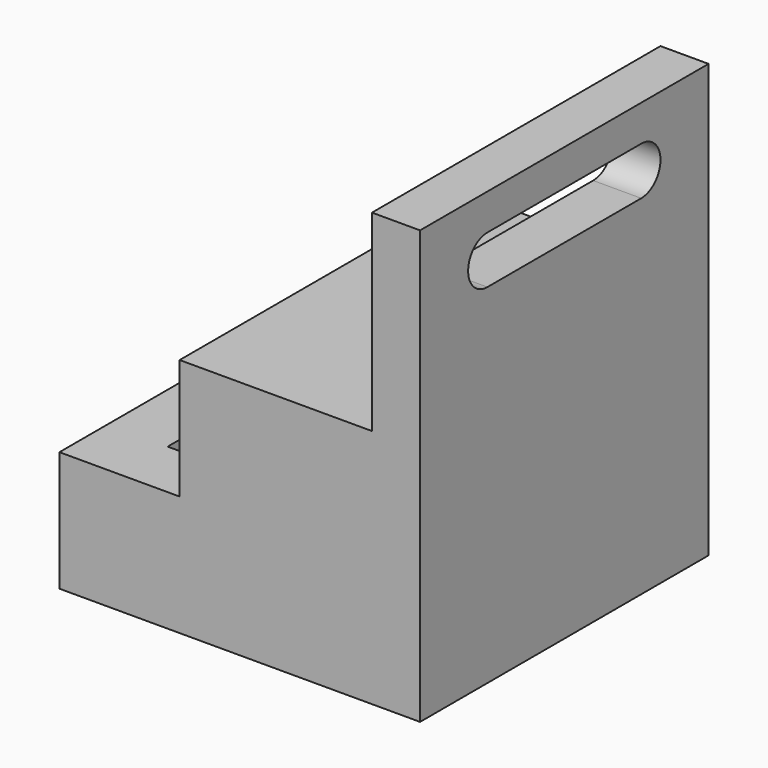
from build123d import *

# Parameters (mm, degrees)
F1_DEPTH = 381
F2_R     = 6.35
F3_DEPTH = 127.001
F4_W     = 50.8
F4_H     = 254
F5_DEPTH = 127.001
F7_DEPTH = 63.5


with BuildPart() as f1:
    # F0 (on Front) → F1 (new body)
    with BuildSketch(Plane.XZ):
        Polygon((190.5, -228.6), (190.5, 228.6), (139.7, 228.6), (139.7, 25.4), (-63.5, 25.4), (-63.5, -101.6), (-190.5, -101.6), (-190.5, -228.6), align=None)
    extrude(amount=F1_DEPTH)

    # F2 (on face) → F3 (cut, through all)
    with BuildSketch(Plane.XY.offset(-101.6)):
        with Locations((-139.7, -190.5)):
            Circle(F2_R)
    extrude(amount=-F3_DEPTH, mode=Mode.SUBTRACT)

    # F4 (on face) → F5 (cut, through all)
    with BuildSketch(Plane.XY.offset(-101.6)):
        with Locations((-101.6, -190.5)):
            Rectangle(F4_W, F4_H)
    extrude(amount=-F5_DEPTH, mode=Mode.SUBTRACT)

    # F6 (on face) → F7 (cut)
    with BuildSketch(Plane(origin=(139.7, 0, 0), x_dir=(0, -1, 0), z_dir=(-1, 0, 0))):
        with BuildLine():
            Line((88.9, 139.7), (292.1, 139.7))
            ThreePointArc((292.1, 139.7), (317.5, 165.1), (292.1, 190.5))
            Line((292.1, 190.5), (88.9, 190.5))
            ThreePointArc((88.9, 190.5), (63.5, 165.1), (88.9, 139.7))
        make_face()
    extrude(amount=-F7_DEPTH, mode=Mode.SUBTRACT)


solid = f1.part
